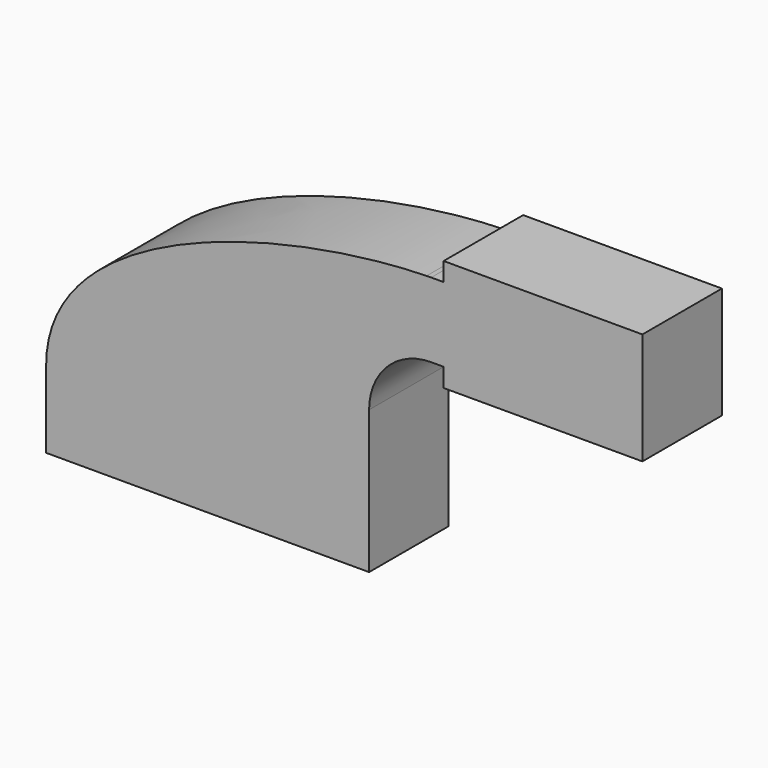
from build123d import *

# Parameters (mm, degrees)
F0_W     = 25.4
F0_H     = 4.7498
F0_H_2   = 4.7752
F0_H_3   = 19.05
F1_DEPTH = 25.4


with BuildPart() as f1:
    # F0 (on Front) → F1 (new body)
    with BuildSketch(Plane.XZ):
        Polygon((-41.275, 9.525), (-41.275, -9.525), (41.275, -9.525), (41.275, 9.525), (22.225, 9.525), align=None)
        with BuildLine():
            add(Edge.make_bspline(
                [(-41.275, 9.525), (-41.9137682091, 44.8755109518), (19.7088872763, 61.1237978396), (55.9633224652, 61.9050337831)],
                knots=[0, 0, 0, 0, 110.2917325218, 110.2917325218, 110.2917325218, 110.2917325218], degree=3))
            Line((-41.275, 9.525), (22.225, 9.525))
            Line((22.225, 9.525), (22.225, 27.0002))
            ThreePointArc((22.225, 27.0002), (32.0382463983, 51.2727247152), (55.9633224652, 61.9050337831))
        make_face()
        with Locations((73.025, 64.3001)):
            Rectangle(F0_W, F0_H)
        with Locations((73.025, 40.4876)):
            Rectangle(F0_W, F0_H_2)
        Polygon((85.725, 66.675), (85.725, 61.9252), (85.725, 42.8752), (85.725, 38.1), (111.125, 38.1), (111.125, 66.675), align=None)
        with BuildLine():
            Line((22.225, 9.525), (41.275, 9.525))
            Line((41.275, 9.525), (41.275, 27.0002))
            ThreePointArc((41.275, 27.0002), (45.9246798487, 38.2255201513), (57.15, 42.8752))
            Line((57.15, 42.8752), (60.325, 42.8752))
            Line((60.325, 42.8752), (60.325, 61.9252))
            Line((60.325, 61.9252), (57.15, 61.9252))
            add(Edge.make_bspline(
                [(55.9633224652, 61.9050337831), (56.3619879863, 61.9136245068), (56.757586004, 61.9203449679), (57.15, 61.9252)],
                knots=[110.2917325218, 110.2917325218, 110.2917325218, 110.2917325218, 111.5045361635, 111.5045361635, 111.5045361635, 111.5045361635], degree=3))
            ThreePointArc((55.9633224652, 61.9050337831), (32.0382463983, 51.2727247152), (22.225, 27.0002))
            Line((22.225, 27.0002), (22.225, 9.525))
        make_face()
        with Locations((73.025, 52.4002)):
            Rectangle(F0_W, F0_H_3)
    extrude(amount=F1_DEPTH)


solid = f1.part
